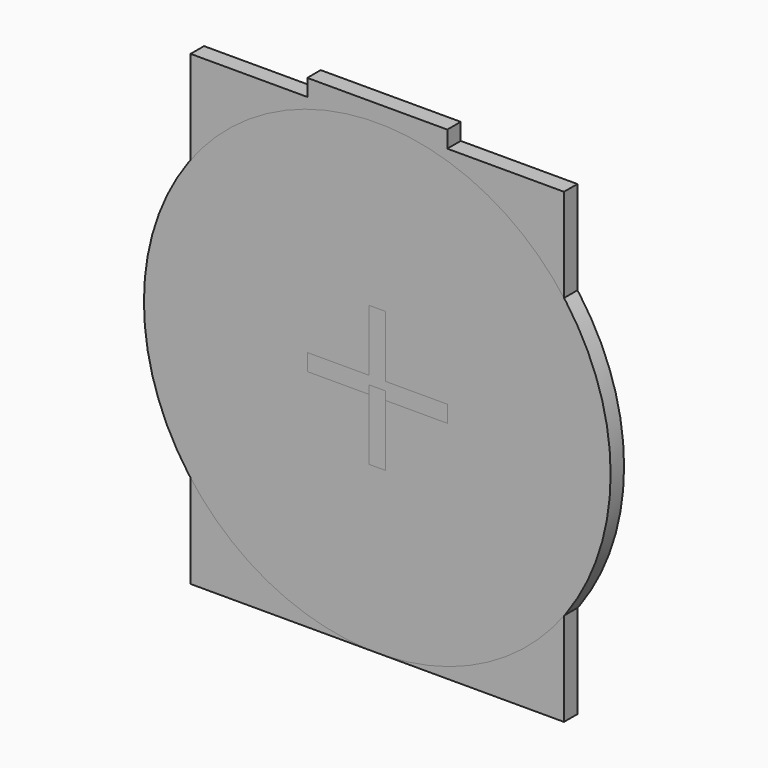
from build123d import *

# Parameters (mm, degrees)
F3_DEPTH = 18
F4_DEPTH = 18
F2_R     = 250
F5_DEPTH = 18


with BuildPart() as f3:
    # F0 (on Front) → F3 (new body)
    with BuildSketch(Plane.XZ):
        Polygon((-200, -250), (200, -250), (200, 250), (75, 250), (75, 268), (9, 268), (9, 0), (-9, 0), (-9, 268), (-75, 268), (-75, 250), (-200, 250), align=None)
    extrude(amount=F3_DEPTH)


with BuildPart() as f4:
    # F1 (on Front) → F4 (new body)
    with BuildSketch(Plane.XZ):
        Polygon((9, -250), (200, -250), (200, 250), (75, 250), (75, 268), (-75, 268), (-75, 250), (-200, 250), (-200, -250), (-9, -250), (-9, 0), (9, 0), align=None)
    extrude(amount=F4_DEPTH)


with BuildPart() as f5:
    # F2 (on Front) → F5 (new body)
    with BuildSketch(Plane.XZ):
        Circle(F2_R)
        Polygon((75, 9), (75, -9), (9, -9), (9, -75), (-9, -75), (-9, -9), (-75, -9), (-75, 9), (-9, 9), (-9, 75), (9, 75), (9, 9), align=None, mode=Mode.SUBTRACT)
    extrude(amount=F5_DEPTH)


solid = Compound([f3.part, f4.part, f5.part])
